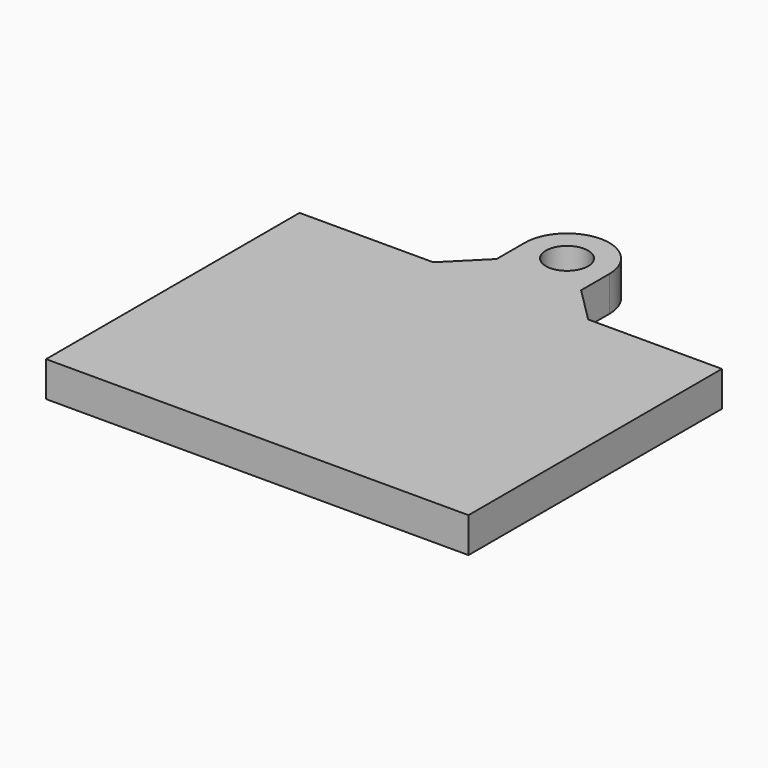
from build123d import *

# Parameters (mm, degrees)
F0_R     = 3
F1_DEPTH = 5


with BuildPart() as f1:
    # F0 (on Top) → F1 (new body)
    with BuildSketch(Plane.XY):
        Polygon((30, -22.5), (30, 22.5), (11, 22.5), (6, 22.5), (-6, 22.5), (-11, 22.5), (-30, 22.5), (-30, -22.5), align=None)
        Polygon((-11, 22.5), (-6, 22.5), (-6, 27.5), align=None)
        with BuildLine():
            Line((-6, 22.5), (6, 22.5))
            Line((6, 22.5), (6, 27.5))
            Line((6, 27.5), (6, 32.5))
            ThreePointArc((6, 32.5), (0, 38.5), (-6, 32.5))
            Line((-6, 32.5), (-6, 27.5))
            Line((-6, 27.5), (-6, 22.5))
        make_face()
        with Locations((0, 32.5)):
            Circle(F0_R, mode=Mode.SUBTRACT)
        Polygon((6, 22.5), (11, 22.5), (6, 27.5), align=None)
    extrude(amount=F1_DEPTH)


solid = f1.part
